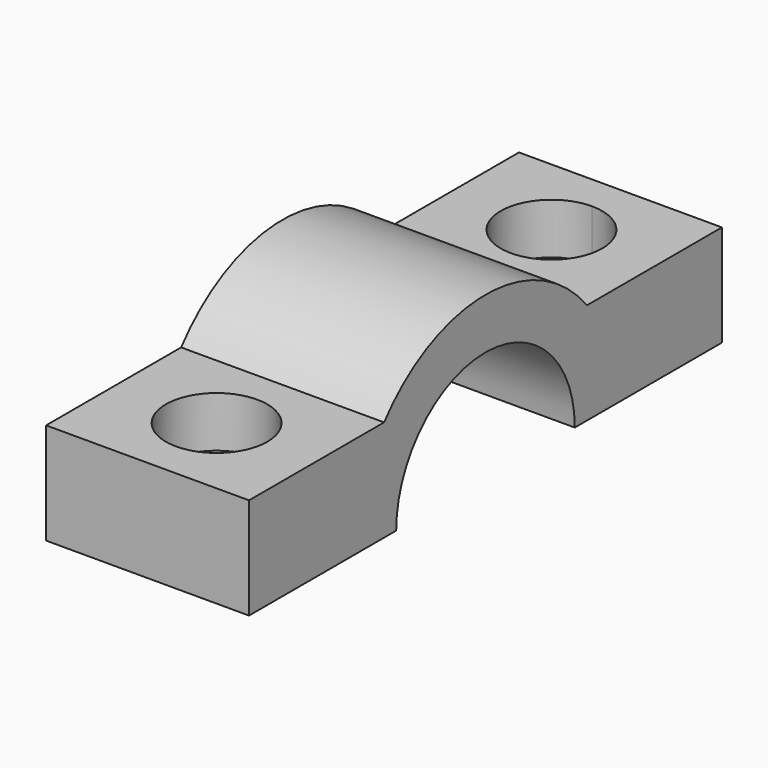
from build123d import *

# Parameters (mm, degrees)
F1_DEPTH = 20
F4_DEPTH = 5
F5_DEPTH = 25
F8_DEPTH = 5
F9_DEPTH = 25


with BuildPart() as f1:
    # F0 (on Right) → F1 (new body)
    with BuildSketch(Plane.YZ):
        with BuildLine():
            ThreePointArc((-11, 0), (0, 11), (11, 0))
            Line((11, 0), (29.125, 0))
            Line((29.125, 0), (29.125, 10))
            Line((29.125, 10), (12.4899959968, 10))
            ThreePointArc((12.4899959968, 10), (0, 16), (-12.4899959968, 10))
            Line((-12.4899959968, 10), (-29.125, 10))
            Line((-29.125, 10), (-29.125, 0))
            Line((-29.125, 0), (-11, 0))
        make_face()
    extrude(amount=F1_DEPTH)

    # F3 (on offset) → F4 (cut)
    with BuildSketch(Plane.XY.offset(10)):
        with BuildLine():
            ThreePointArc((15, -20.6245866863), (6.4644660941, -17.0890527804), (10, -25.6245866863))
            ThreePointArc((10, -25.6245866863), (13.5355339059, -24.1601205923), (15, -20.6245866863))
        make_face()
        with BuildLine():
            ThreePointArc((12.5, -20.6245866863), (11.767766953, -22.3923536393), (10, -23.1245866863))
            ThreePointArc((10, -23.1245866863), (8.232233047, -18.8568197334), (12.5, -20.6245866863))
        make_face(mode=Mode.SUBTRACT)
    extrude(amount=-F4_DEPTH, mode=Mode.SUBTRACT)

    # F3 (on offset) → F5 (cut)
    with BuildSketch(Plane.XY.offset(10)):
        with BuildLine():
            ThreePointArc((12.5, -20.6245866863), (8.232233047, -18.8568197334), (10, -23.1245866863))
            ThreePointArc((10, -23.1245866863), (11.767766953, -22.3923536393), (12.5, -20.6245866863))
        make_face()
    extrude(amount=-F5_DEPTH, mode=Mode.SUBTRACT)

    # F7 (on offset) → F8 (cut)
    with BuildSketch(Plane.XY.offset(10)):
        with BuildLine():
            ThreePointArc((15, 20.6246930474), (13.5355339059, 24.1602269533), (10, 25.6246930474))
            ThreePointArc((10, 25.6246930474), (6.4644660941, 17.0891591415), (15, 20.6246930474))
        make_face()
        with BuildLine():
            ThreePointArc((12.5, 20.6246930474), (8.232233047, 18.8569260944), (10, 23.1246930474))
            ThreePointArc((10, 23.1246930474), (11.767766953, 22.3924600004), (12.5, 20.6246930474))
        make_face(mode=Mode.SUBTRACT)
    extrude(amount=-F8_DEPTH, mode=Mode.SUBTRACT)

    # F9 (cut): a face of the model
    f9_faces = [f1.faces().sort_by_distance(p)[0] for p in [
        (10, 20.6246930474, 10),
    ]]
    extrude(f9_faces, amount=-F9_DEPTH, mode=Mode.SUBTRACT)


solid = f1.part
